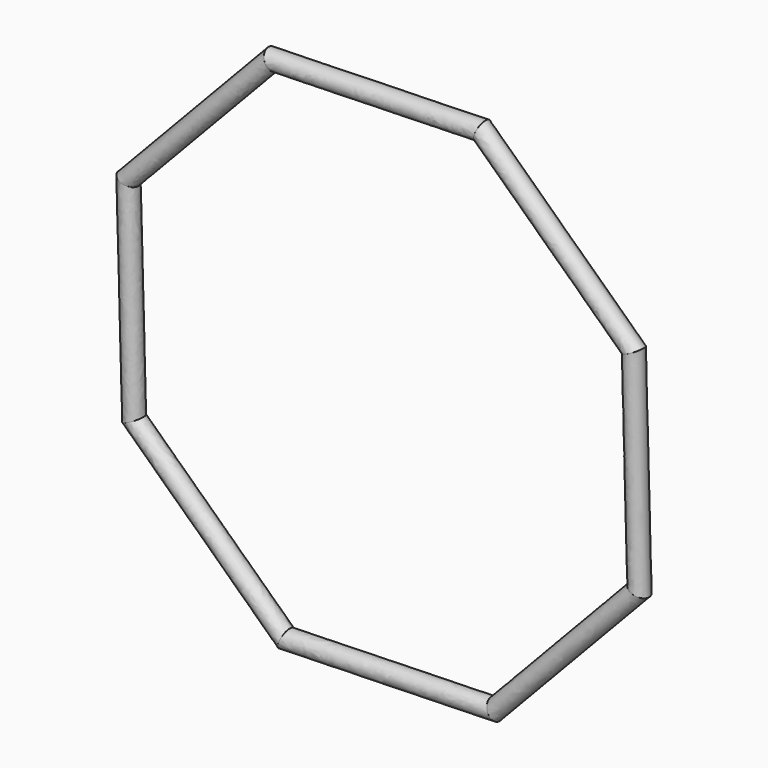
from build123d import *

# Parameters (mm, degrees)
F4_R = 12.7


with BuildPart() as f5:
    # F5: sweep along a path in F0
    with BuildLine(Plane.XZ) as f5_path:
        Line((130.5881289093, 340.8972556548), (333.3905126556, 148.7110096672))
        Line((333.3905126556, 148.7110096672), (340.8972556548, -130.5881289093))
        Line((340.8972556548, -130.5881289093), (148.7110096672, -333.3905126556))
        Line((148.7110096672, -333.3905126556), (-130.5881289093, -340.8972556548))
        Line((-130.5881289093, -340.8972556548), (-333.3905126556, -148.7110096672))
        Line((-333.3905126556, -148.7110096672), (-340.8972556548, 130.5881289093))
        Line((-340.8972556548, 130.5881289093), (-148.7110096672, 333.3905126556))
        Line((-148.7110096672, 333.3905126556), (130.5881289093, 340.8972556548))
    # F4 (on line) → F5 (sweep)
    with BuildSketch(Plane(origin=(0, 0, 86.9471161646), x_dir=(1, 0, 0), z_dir=(0, 0, -1))):
        with Locations((336.0120356083, 0)):
            Circle(F4_R)
    sweep(path=f5_path.line, transition=Transition.RIGHT)


solid = f5.part
